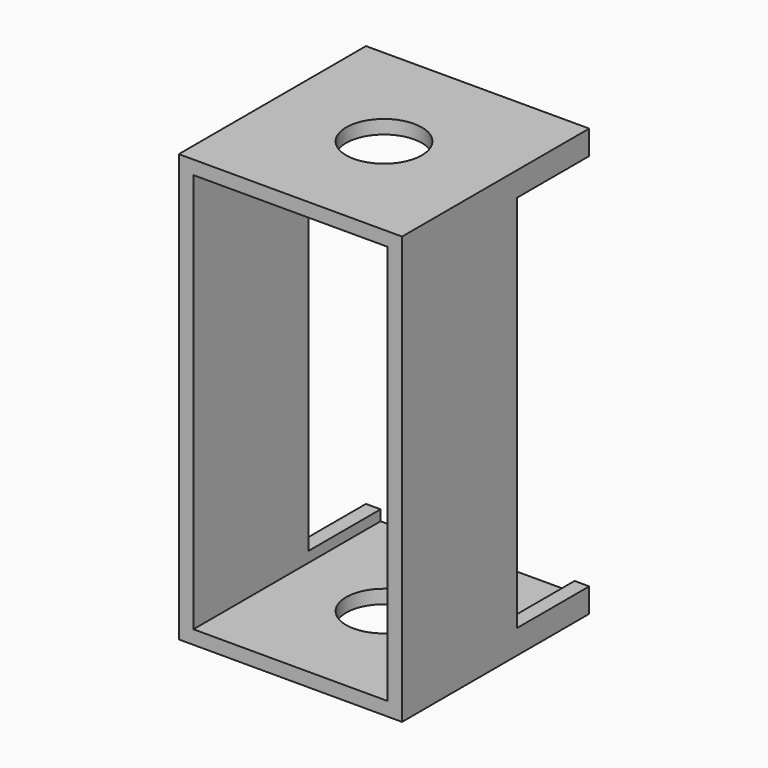
from build123d import *

# Parameters (mm, degrees)
F0_W     = 72.709278
F0_H     = 139.160782
F1_DEPTH = 38.1
F2_W     = 63.17363
F2_H     = 130.221114
F3_DEPTH = 76.201
F4_R     = 12.32698
F5_DEPTH = 139.161782
F6_W     = 29.30933
F6_H     = 123.367376
F7_DEPTH = 72.710277


with BuildPart() as f1:
    # F0 (on Front) → F1 (new body, symmetric)
    with BuildSketch(Plane.XZ):
        Rectangle(F0_W, F0_H)
    extrude(amount=F1_DEPTH, both=True)

    # F2 (on face) → F3 (cut, through all)
    with BuildSketch(Plane.XZ.offset(38.1)):
        Rectangle(F2_W, F2_H)
    extrude(amount=-F3_DEPTH, mode=Mode.SUBTRACT)

    # F4 (on face) → F5 (cut, through all)
    with BuildSketch(Plane.XY.offset(69.580391)):
        Circle(F4_R)
    extrude(amount=-F5_DEPTH, mode=Mode.SUBTRACT)

    # F6 (on face) → F7 (cut, through all)
    with BuildSketch(Plane(origin=(-36.354639, 0, 0), x_dir=(0, -1, 0), z_dir=(-1, 0, 0))):
        with Locations((-23.445335, 0)):
            Rectangle(F6_W, F6_H)
        with Locations((-52.754665, 0)):
            Rectangle(F6_W, F6_H)
    extrude(amount=-F7_DEPTH, mode=Mode.SUBTRACT)


solid = f1.part
